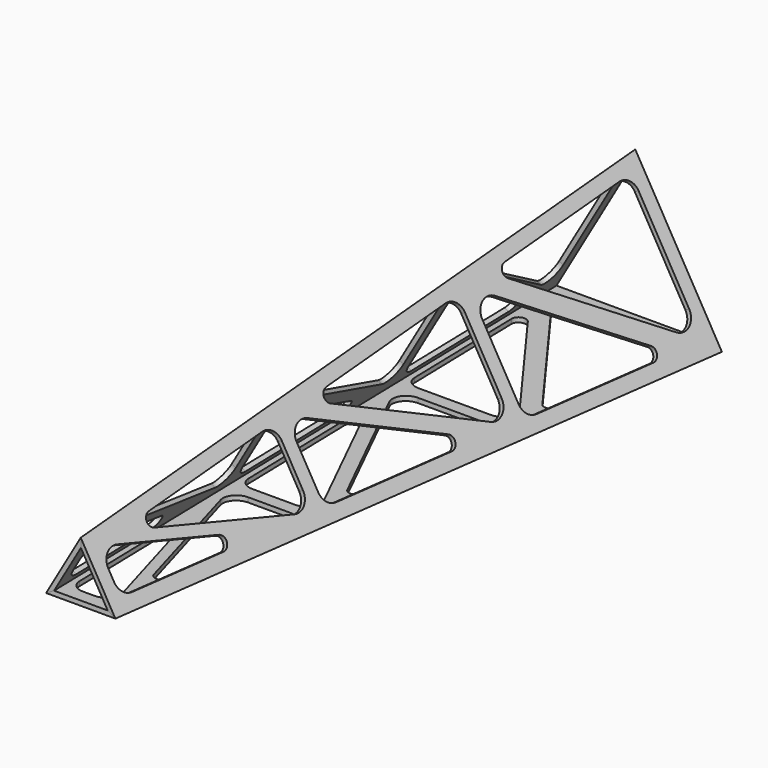
from build123d import *

# Parameters (mm, degrees)
F12_DEPTH = 1.3094010768
F13_R     = 4
F14_R     = 2
F15_COUNT = 3


with BuildPart() as f12:
    # F11 (on 3pt) → F12 (new body)
    with BuildSketch(Plane(origin=(12.4766063631, -0.6238303182, 7.2033720423), x_dir=(0.0374648931, 0.9990638163, 0.0216303661), z_dir=(0.8652146449, -0.0432607322, 0.4995319082))):
        Polygon((-199.5629973065, -10), (0.6244148852, -25), (0.6244148852, 25), (-199.5629973065, 10), align=None)
        Polygon((-195.5629973065, -6.2885059162), (-195.5629973065, 6.2885059162), (-187.6440477443, 6.881871114), (-132.2063387469, 11.0358067979), (-128.2063387469, 11.3355259428), (-120.5510228532, 11.9091371262), (-66.0701318871, 15.9913786395), (-62.0701318871, 16.2910977844), (-54.4132921405, 16.8648231497), (-3.3755851148, 20.6890676264), (-3.3755851148, -20.6890676264), (-12.7686794815, -19.9852450736), (-62.0701318871, -16.2910977844), (-66.0701318871, -15.9913786395), (-76.3495546331, -15.2211436906), (-128.2063387469, -11.3355259428), (-132.2063387469, -11.0358067979), (-144.9052103128, -10.0842830662), align=None, mode=Mode.SUBTRACT)
        Polygon((-187.6440477443, 6.881871114), (-195.5629973065, 6.2885059162), (-144.9052103128, -10.0842830662), (-132.2063387469, -11.0358067979), align=None)
        Polygon((-128.2063387469, 11.3355259428), (-132.2063387469, 11.0358067979), (-132.2063387469, -11.0358067979), (-128.2063387469, -11.3355259428), align=None)
        Polygon((-120.5510228532, 11.9091371262), (-128.2063387469, 11.3355259428), (-76.3495546331, -15.2211436906), (-66.0701318871, -15.9913786395), align=None)
        Polygon((-62.0701318871, 16.2910977844), (-66.0701318871, 15.9913786395), (-66.0701318871, -15.9913786395), (-62.0701318871, -16.2910977844), align=None)
        Polygon((-54.4132921405, 16.8648231497), (-62.0701318871, 16.2910977844), (-12.7686794815, -19.9852450736), (-3.3755851148, -20.6890676264), align=None)
    extrude(amount=-F12_DEPTH)

    # F13
    f13_edges = [f12.edges().sort_by_distance(p)[0] for p in [
        (7.727656, -195.975422, -2.799777),
        (12.474957, -132.678077, -5.540632),
        (12.774676, -128.681822, -5.713675),
        (22.128218, -3.967932, -11.113945),
        (1.43915, -3.967932, 24.720571),
        (1.43915, -66.603786, 19.296147),
        (1.43915, -62.60753, 19.642233),
        (1.43915, -195.975422, 8.092235),
        (1.43915, -132.678077, 13.573946),
        (1.43915, -128.681822, 13.920032),
        (17.430529, -66.603786, -8.401733),
        (17.730248, -62.60753, -8.574776),
    ]]
    fillet(f13_edges, radius=F13_R)

    # F14
    f14_edges = [f12.edges().sort_by_distance(p)[0] for p in [
        (1.43915, -121.033672, 14.582381),
        (1.43915, -188.063886, 8.777394),
        (11.523433, -145.36506, -4.99127),
        (16.660294, -76.873585, -7.957038),
        (1.43915, -54.957859, 20.304714),
        (21.424395, -13.352233, -10.707593),
    ]]
    fillet(f14_edges, radius=F14_R)


with BuildPart() as f15_1:
    # F15: instance of F12
    add(f12.part.rotate(Axis((0, -100, 0), (0, -1, 0)), 1 * 360 / F15_COUNT))


with BuildPart() as f15_2:
    # F15: instance of F12
    add(f12.part.rotate(Axis((0, -100, 0), (0, -1, 0)), 2 * 360 / F15_COUNT))


with BuildPart() as f17_1:
    # F17: instance of F12
    add(f12.part.mirror(Plane.YZ))


with BuildPart() as f18_tool:
    # F6 (on Front) → F18 section 0
    with BuildSketch(Plane.XZ):
        Polygon((-25, -14.4337567297), (25, -14.4337567297), (0, 28.8675134595), align=None)
    # F8 (on offset) → F18 section 1
    with BuildSketch(Plane.XZ.offset(200)):
        Polygon((10, -5.7735026919), (0, 11.5470053838), (-10, -5.7735026919), align=None)
    loft()


with BuildPart() as f12_1:
    add(f12.part)

    # F18: intersect by f18_tool
    add(f18_tool.part, mode=Mode.INTERSECT)


with BuildPart() as f15_2_1:
    add(f15_2.part)

    # F18: intersect by f18_tool
    add(f18_tool.part, mode=Mode.INTERSECT)


with BuildPart() as f17_1_1:
    add(f17_1.part)

    # F18: intersect by f18_tool
    add(f18_tool.part, mode=Mode.INTERSECT)


with BuildPart() as f12_2:
    add(f12_1.part)

    # F19: union F15_2, F17_1
    add(f15_2_1.part)
    add(f17_1_1.part)


solid = f12_2.part
